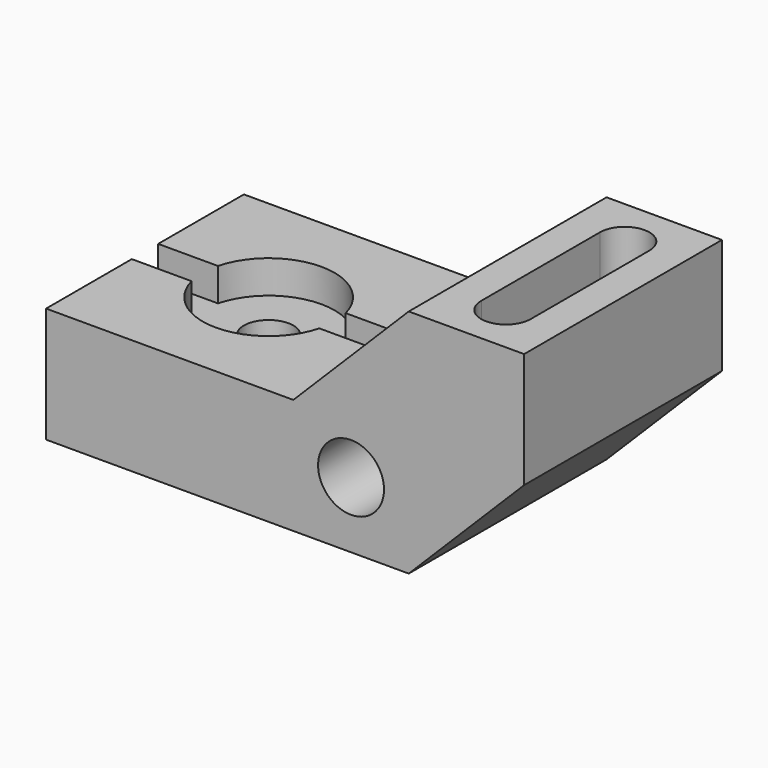
from build123d import *

# Parameters (mm, degrees)
F0_W           = 147.32
F0_H           = 76.2
F1_DEPTH       = 71.12
F3_DEPTH       = 76.201
F5_DEPTH       = 27.94
F6_R           = 10.16
F7_DEPTH       = 76.201
F9_D           = 15.24
F9_CBORE_D     = 40.64
F9_CBORE_DEPTH = 10.16
F10_W          = 76.2
F10_H          = 10.16
F11_DEPTH      = 10.16


with BuildPart() as f1:
    # F0 (on Top) → F1 (new body)
    with BuildSketch(Plane.XY):
        with Locations((73.66, 38.1)):
            Rectangle(F0_W, F0_H)
    extrude(amount=F1_DEPTH)

    # F2 (on face) → F3 (cut, through all)
    with BuildSketch(Plane.XZ):
        Polygon((147.32, 0), (147.32, 35.56), (111.76, 0), align=None)
        Polygon((76.2, 35.56), (111.76, 71.12), (0, 71.12), (0, 35.56), align=None)
    extrude(amount=-F3_DEPTH, mode=Mode.SUBTRACT)

    # F4 (on face) → F5 (cut)
    with BuildSketch(Plane.XY.offset(71.12)):
        with BuildLine():
            Line((137.16, 15.24), (137.16, 60.96))
            ThreePointArc((137.16, 60.96), (129.54, 68.58), (121.92, 60.96))
            Line((121.92, 60.96), (121.92, 15.24))
            ThreePointArc((121.92, 15.24), (129.54, 7.62), (137.16, 15.24))
        make_face()
    extrude(amount=-F5_DEPTH, mode=Mode.SUBTRACT)

    # F6 (on face) → F7 (cut, through all)
    with BuildSketch(Plane.XZ):
        with Locations((93.98, 20.32)):
            Circle(F6_R)
    extrude(amount=-F7_DEPTH, mode=Mode.SUBTRACT)

    # F9 (through all)
    with Locations(Plane.XY.offset(35.56)):
        with Locations((38.1, 38.1)):
            CounterBoreHole(F9_D / 2, F9_CBORE_D / 2, F9_CBORE_DEPTH)

    # F10 (on face) → F11 (cut)
    with BuildSketch(Plane.XY.offset(35.56)):
        with Locations((38.1, 38.1)):
            Rectangle(F10_W, F10_H)
    extrude(amount=-F11_DEPTH, mode=Mode.SUBTRACT)


solid = f1.part
